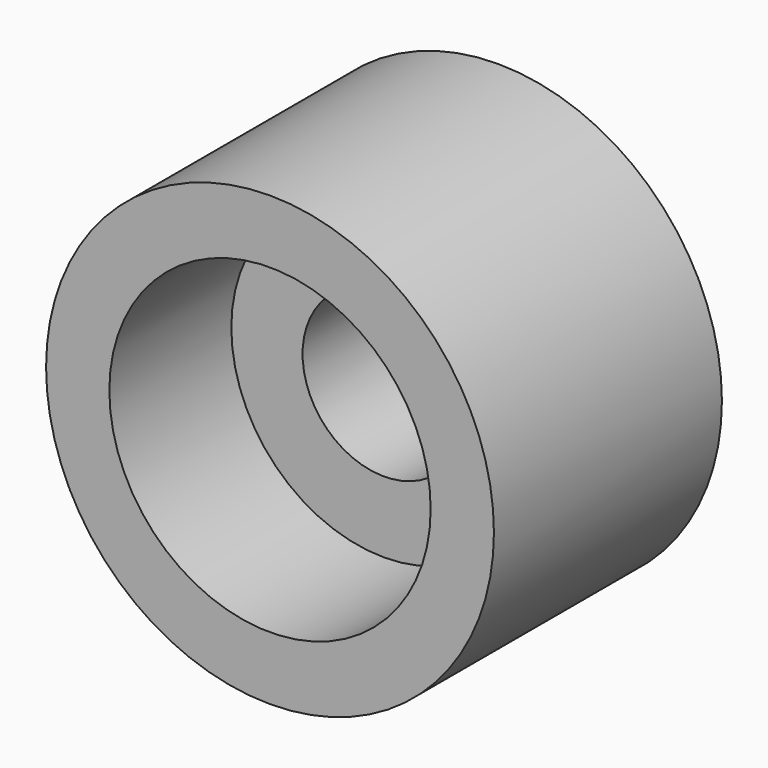
from build123d import *

# Parameters (mm, degrees)
F0_R        = 7.5
F0_R_2      = 4
F1_DEPTH    = 7
F2_R        = 11
F2_R_2      = 7.891923
F3_DEPTH    = 7
F3_FACE_R   = 11
F3_FACE_R_2 = 7.891923
F4_DEPTH    = 7


with BuildPart() as f1:
    # F0 (on Front) → F1 (new body)
    with BuildSketch(Plane.XZ):
        Circle(F0_R)
        Circle(F0_R_2, mode=Mode.SUBTRACT)
    extrude(amount=F1_DEPTH)


with BuildPart() as f3:
    # F2 (on Front) → F3 (new body)
    with BuildSketch(Plane.XZ):
        Circle(F2_R)
        Circle(F2_R_2, mode=Mode.SUBTRACT)
    extrude(amount=F3_DEPTH)

    # F2 (on Front) + F3_face (on face) → F4 (join)
    with BuildSketch(Plane.XZ):
        Circle(F2_R)
        Circle(F2_R_2, mode=Mode.SUBTRACT)
    with BuildSketch(Plane.XZ.offset(7)):
        Circle(F3_FACE_R)
        Circle(F3_FACE_R_2, mode=Mode.SUBTRACT)
    extrude(amount=F4_DEPTH)


solid = Compound([f1.part, f3.part])
